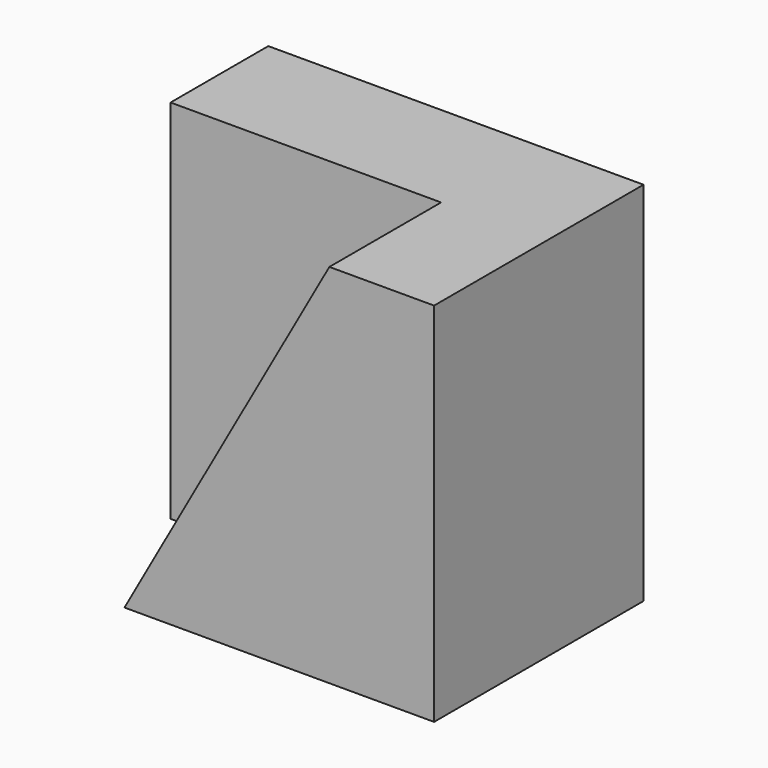
from build123d import *

# Parameters (mm, degrees)
F0_W     = 136.525
F0_H     = 66.675
F1_DEPTH = 47.625
F3_DEPTH = 25.4
F4_DEPTH = 68.2625


with BuildPart() as f1:
    # F0 (on Front) → F1 (new body)
    with BuildSketch(Plane.XZ):
        with Locations((68.2625, 33.3375)):
            Rectangle(F0_W, F0_H)
    extrude(amount=F1_DEPTH)

    # F2 (on face) → F3 (cut)
    with BuildSketch(Plane.XZ.offset(47.625)):
        Polygon((117.475, 66.675), (19.05, 66.675), (56.3245, 0), (80.2005, 0), align=None)
    extrude(amount=-F3_DEPTH, mode=Mode.SUBTRACT)

    # F4 (cut): a face of the model
    f4_faces = [f1.faces().sort_by_distance(p)[0] for p in [
        (0, -23.8125, 33.3375),
    ]]
    extrude(f4_faces, amount=-F4_DEPTH, mode=Mode.SUBTRACT)


solid = f1.part
